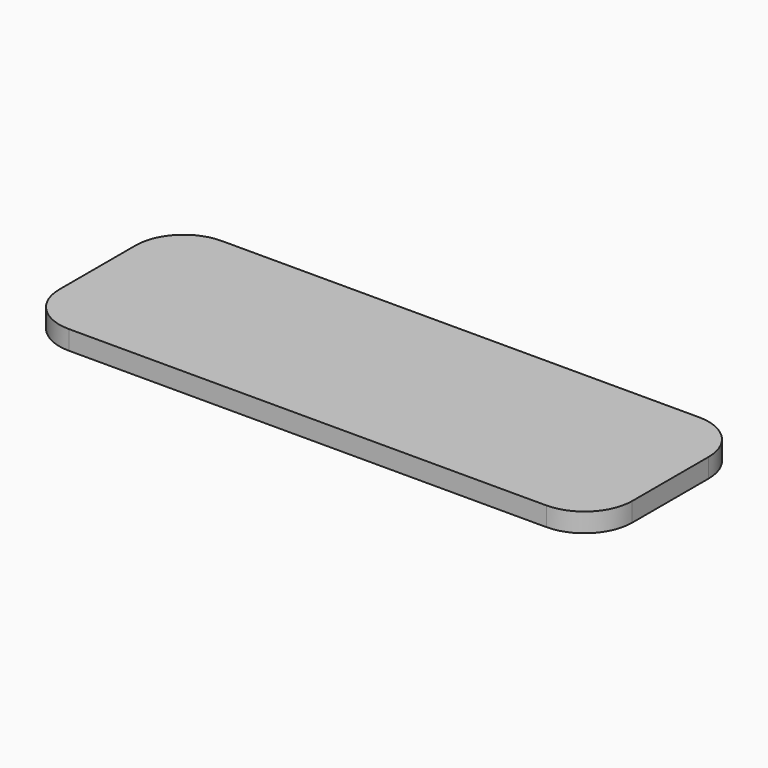
from build123d import *

# Parameters (mm, degrees)
F1_DEPTH = 1.27


with BuildPart() as f1:
    # F0 (on Top) → F1 (new body, symmetric)
    with BuildSketch(Plane.XY):
        with BuildLine():
            ThreePointArc((38.1, 6.35), (36.240128, 10.840128), (31.75, 12.7))
            Line((31.75, 12.7), (-31.75, 12.7))
            ThreePointArc((-31.75, 12.7), (-36.240128, 10.840128), (-38.1, 6.35))
            Line((-38.1, 6.35), (-38.1, -6.35))
            ThreePointArc((-38.1, -6.35), (-36.240128, -10.840128), (-31.75, -12.7))
            Line((-31.75, -12.7), (31.75, -12.7))
            ThreePointArc((31.75, -12.7), (36.240128, -10.840128), (38.1, -6.35))
            Line((38.1, -6.35), (38.1, 6.35))
        make_face()
    extrude(amount=F1_DEPTH, both=True)


solid = f1.part
